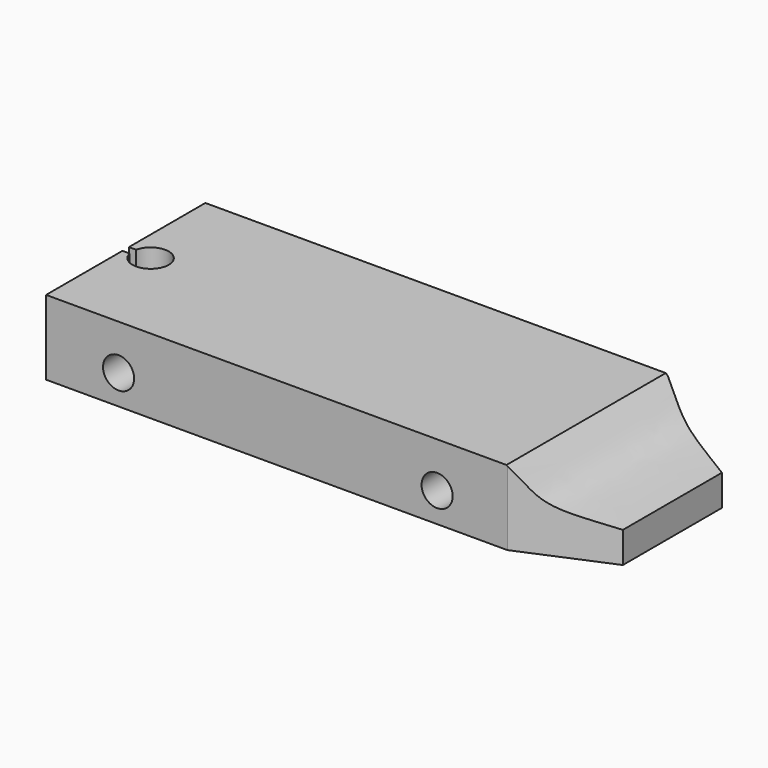
from build123d import *

# Parameters (mm, degrees)
F0_R     = 3.96875
F1_DEPTH = 50.8
F3_DEPTH = 15.875
F6_DEPTH = 25.4
F8_DEPTH = 25.4


with BuildPart() as f1:
    # F0 (on Front) → F1 (new body)
    with BuildSketch(Plane.XZ):
        with BuildLine():
            Line((-139.7, 0), (0, 0))
            Line((0, 0), (0, 7.903855294))
            add(Edge.make_bspline(
                [(-22.225, 19.05), (-19.6667376265, 16.8833683971), (-15.7418485572, 10.4875386248), (-6.5614327707, 9.3293877219), (0, 7.903855294)],
                knots=[0, 0, 0, 0, 0.4401240907, 1, 1, 1, 1], degree=3))
            Line((-22.225, 19.05), (-139.7, 19.05))
            Line((-139.7, 19.05), (-139.7, 0))
        make_face()
        with Locations((-121.2008071616, 7.5636314338)):
            Circle(F0_R, mode=Mode.SUBTRACT)
        with Locations((-39.9241782725, 7.5636314338)):
            Circle(F0_R, mode=Mode.SUBTRACT)
    extrude(amount=F1_DEPTH)

    # F2 (on face) → F3 (cut)
    with BuildSketch(Plane.XY.offset(19.05)):
        with BuildLine():
            Line((-139.7, -26.4440402389), (-137.8610034316, -26.4440402389))
            ThreePointArc((-137.8610034316, -26.4440402389), (-128.7197553381, -25.3974799855), (-137.8621371984, -24.360870613))
            Line((-137.8621371984, -24.360870613), (-139.7, -24.3874061853))
            Line((-139.7, -24.3874061853), (-139.7, -26.4440402389))
        make_face()
    extrude(amount=-F3_DEPTH, mode=Mode.SUBTRACT)

    # F5 (on face) → F6 (cut)
    with BuildSketch(Plane(origin=(0, 0, 0), x_dir=(1, 0, 0), z_dir=(0, 0, -1))):
        Polygon((-21.9825431705, 50.8), (0, 41.4597280324), (0, 50.8), align=None)
    extrude(amount=-F6_DEPTH, mode=Mode.SUBTRACT)

    # F7 (on face) → F8 (cut)
    with BuildSketch(Plane(origin=(0, 0, 0), x_dir=(1, 0, 0), z_dir=(0, 0, -1))):
        Polygon((0, 9.8713636398), (-21.7288583517, 0), (0, 0), align=None)
    extrude(amount=-F8_DEPTH, mode=Mode.SUBTRACT)


solid = f1.part
